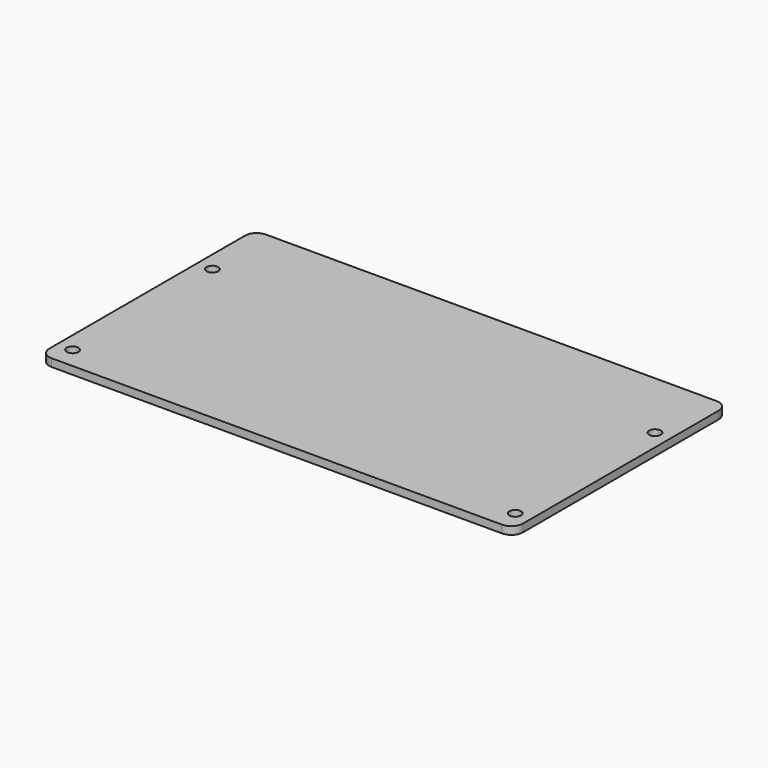
from build123d import *

# Parameters (mm, degrees)
F0_W     = 122
F0_H     = 56
F0_R     = 1.5
F1_DEPTH = 2
F2_DEPTH = 13
F4_R     = 3


with BuildPart() as f1:
    # F0 (on Top) → F1 (new body)
    with BuildSketch(Plane.XY):
        Rectangle(F0_W, F0_H)
        with Locations((-57, -22.5)):
            Circle(F0_R, mode=Mode.SUBTRACT)
        with Locations((57, -22.5)):
            Circle(F0_R, mode=Mode.SUBTRACT)
        with Locations((-57, 22.5)):
            Circle(F0_R, mode=Mode.SUBTRACT)
        with Locations((57, 22.5)):
            Circle(F0_R, mode=Mode.SUBTRACT)
    extrude(amount=-F1_DEPTH)

    # F2 (add): a face of the model
    f2_faces = [f1.faces().sort_by_distance(p)[0] for p in [
        (0, 28, -1),
    ]]
    extrude(f2_faces, amount=F2_DEPTH)

    # F4
    f4_edges = [f1.edges().sort_by_distance(p)[0] for p in [
        (-61, -28, -1),
        (61, -28, -1),
        (61, 41, -1),
        (-61, 41, -1),
    ]]
    fillet(f4_edges, radius=F4_R)


solid = f1.part
